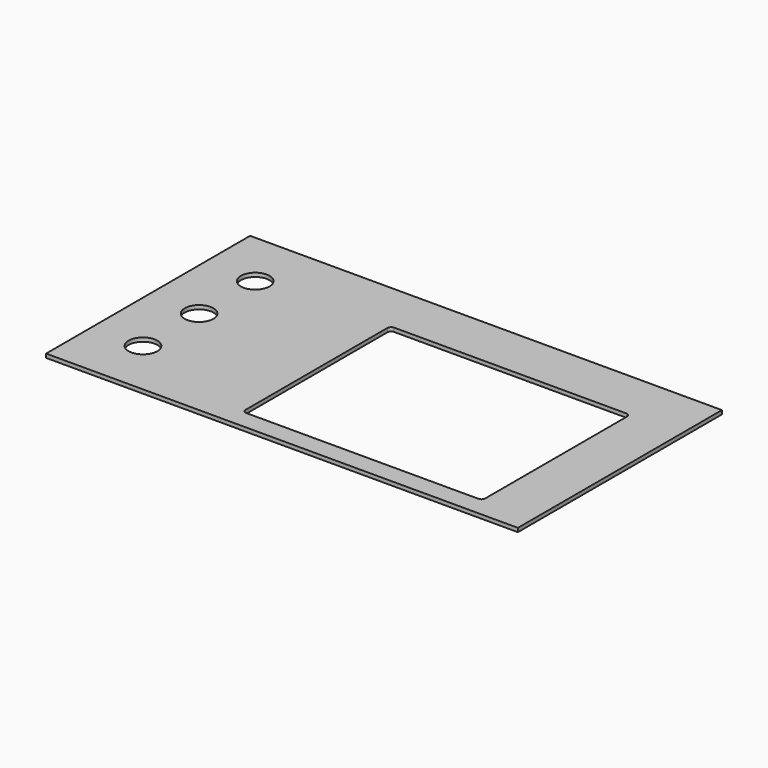
from build123d import *

# Parameters (mm, degrees)
F0_W     = 370
F0_H     = 200
F1_DEPTH = 3
F2_R     = 11.25
F3_DEPTH = 3.001


with BuildPart() as f1:
    # F0 (on Top) → F1 (new body)
    with BuildSketch(Plane.XY):
        Rectangle(F0_W, F0_H)
        with BuildLine():
            ThreePointArc((145, -82), (144.12132, -84.12132), (142, -85))
            Line((142, -85), (-40, -85))
            ThreePointArc((-40, -85), (-42.12132, -84.12132), (-43, -82))
            Line((-43, -82), (-43, 57))
            ThreePointArc((-43, 57), (-42.12132, 59.12132), (-40, 60))
            Line((-40, 60), (142, 60))
            ThreePointArc((142, 60), (144.12132, 59.12132), (145, 57))
            Line((145, 57), (145, -82))
        make_face(mode=Mode.SUBTRACT)
    extrude(amount=-F1_DEPTH)

    # F2 (on Top) → F3 (cut, through all)
    with BuildSketch(Plane.XY):
        with Locations((-145, -55)):
            Circle(F2_R)
        with Locations((-145, 0)):
            Circle(F2_R)
        with Locations((-145, 55)):
            Circle(F2_R)
    extrude(amount=-F3_DEPTH, mode=Mode.SUBTRACT)


solid = f1.part
